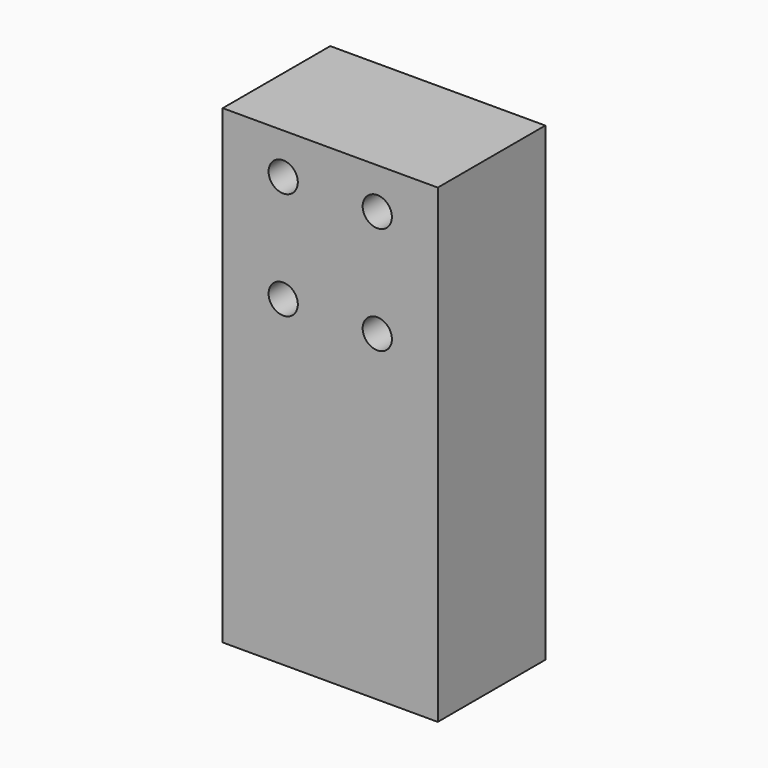
from build123d import *

# Parameters (mm, degrees)
F0_W     = 50.8
F0_H     = 111.125
F1_DEPTH = 15.875
F3_D     = 6.9088
F3_DEPTH = 11.938
F3_TIP   = 2.0756129224


with BuildPart() as f1:
    # F0 (on Front) → F1 (new body, symmetric)
    with BuildSketch(Plane.XZ):
        Rectangle(F0_W, F0_H)
    extrude(amount=F1_DEPTH, both=True)

    # F3
    with Locations(Plane.XZ.offset(15.875)):
        with Locations((-11.1125, 45.9105), (11.1125, 45.9105), (-11.1125, 20.5105), (11.1125, 20.5105)):
            Hole(F3_D / 2, depth=F3_DEPTH)
            with Locations((0, 0, -(F3_DEPTH + F3_TIP / 2))):  # 118° drill point
                Cone(0, F3_D / 2, F3_TIP, mode=Mode.SUBTRACT)


solid = f1.part
